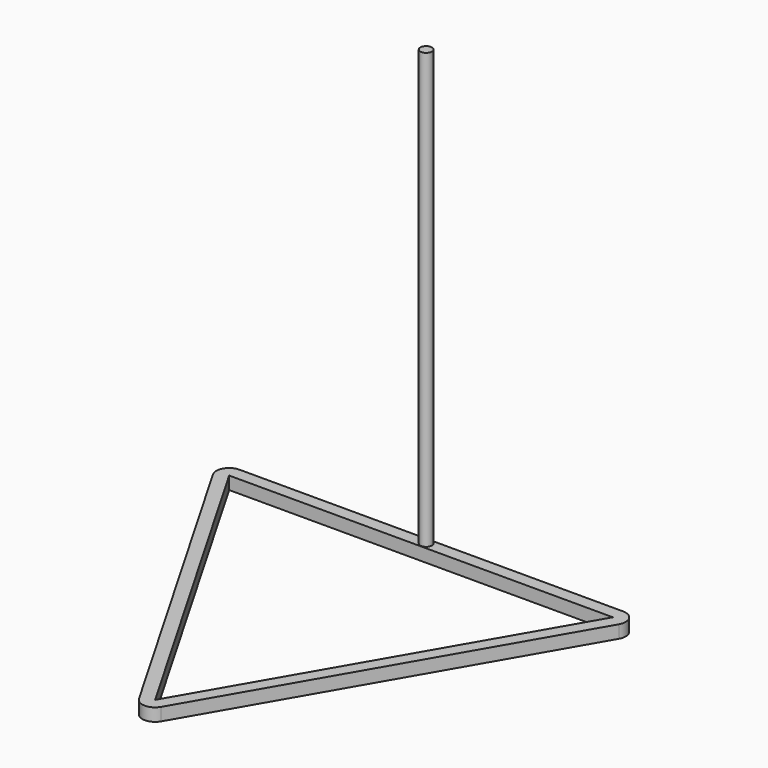
from build123d import *

# Parameters (mm, degrees)
F1_DEPTH = 2.54
F2_R     = 1.143
F3_DEPTH = 88.9


with BuildPart() as f1:
    # F0 (on Top) → F1 (new body)
    with BuildSketch(Plane.XY):
        with BuildLine():
            Line((38.1, 68.531136), (-38.1, 68.531136))
            ThreePointArc((-38.1, 68.531136), (-40.299705, 67.261136), (-40.299705, 64.721136))
            Line((-40.299705, 64.721136), (-2.199705, -1.27))
            ThreePointArc((-2.199705, -1.27), (0, -2.54), (2.199705, -1.27))
            Line((2.199705, -1.27), (40.299705, 64.721136))
            ThreePointArc((40.299705, 64.721136), (40.299705, 67.261136), (38.1, 68.531136))
        make_face()
        Polygon((38.1, 65.991136), (0, 0), (-38.1, 65.991136), align=None, mode=Mode.SUBTRACT)
    extrude(amount=F1_DEPTH)

    # F2 (on Top) → F3 (join)
    with BuildSketch(Plane.XY):
        with Locations((0, 67.261136)):
            Circle(F2_R)
    extrude(amount=F3_DEPTH)


solid = f1.part
